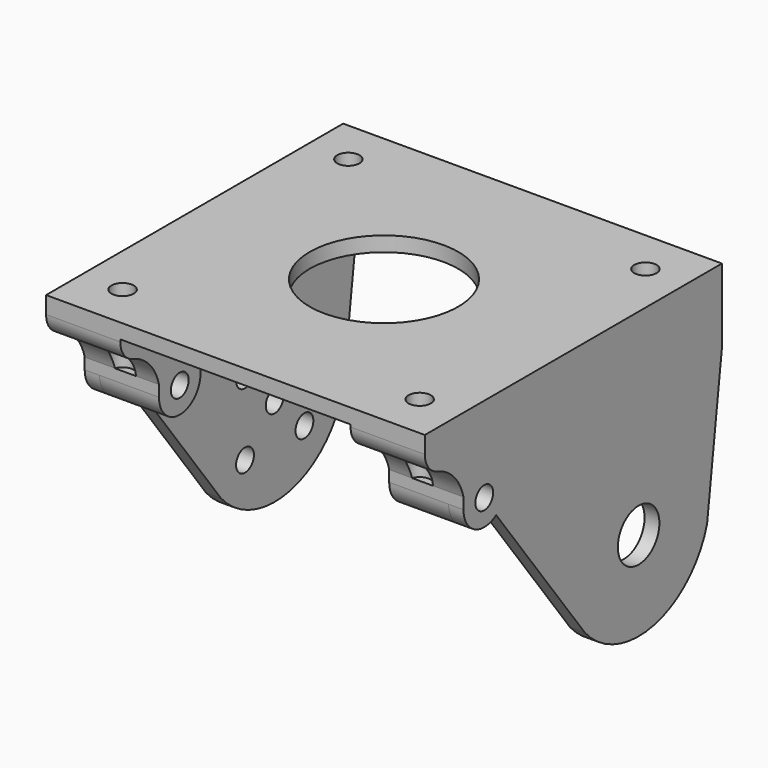
from build123d import *

# Parameters (mm, degrees)
SKETCH_W        = 47
SKETCH_H        = 50
SKETCH_R        = 10
SKETCH_R_2      = 1.5
PAD_DEPTH       = 2
SKETCH001_R     = 1.5
PAD001_DEPTH    = 2
SKETCH002_R     = 1.5
PAD002_DEPTH    = 8
SKETCH004_R     = 1.5
POCKET_DEPTH    = 8
PAD003_DEPTH    = 8
SKETCH005_R     = 1.5
POCKET001_DEPTH = 4
SKETCH006_R     = 1.5
SKETCH006_R_2   = 3.5
PAD004_DEPTH    = 2
SKETCH007_R     = 1.5
PAD005_DEPTH    = 8
SKETCH008_R     = 1.5
POCKET002_DEPTH = 8
PAD006_DEPTH    = 8
SKETCH010_R     = 1.5
POCKET003_DEPTH = 4
FILLET_R        = 3


with BuildPart() as body:
    # Sketch → Pad (new body)
    with BuildSketch(Plane.XY):
        Rectangle(SKETCH_W, SKETCH_H)
        Circle(SKETCH_R, mode=Mode.SUBTRACT)
        with Locations((-20, -19)):
            Circle(SKETCH_R_2, mode=Mode.SUBTRACT)
        with Locations((20, -19)):
            Circle(SKETCH_R_2, mode=Mode.SUBTRACT)
        with Locations((-20, 19)):
            Circle(SKETCH_R_2, mode=Mode.SUBTRACT)
        with Locations((20, 19)):
            Circle(SKETCH_R_2, mode=Mode.SUBTRACT)
    extrude(amount=PAD_DEPTH)

    # Sketch001 (on Face2 of Pad) → Pad001 (join)
    with BuildSketch(Plane.YZ.offset(23.5)):
        with BuildLine():
            Line((-25, 2), (25, 2))
            Line((25, -8), (25, 2))
            Line((22.505468, -27.843823), (25, -8))
            ThreePointArc((1.953944, -32.406741), (13.581707, -36.214738), (22.505468, -27.843823))
            Line((-13, -12.372281), (1.953944, -32.406741))
            ThreePointArc((-18.5, -9.5), (-16.620185, -12.602418), (-13, -12.372281))
            Line((-18.5, -8), (-18.5, -9.5))
            ThreePointArc((-18.5, -8), (-20.847064, -4.279548), (-25, -2.829168))
            Line((-25, 2), (-25, -2.829168))
        make_face()
        with Locations((-15, -9.5)):
            Circle(SKETCH001_R, mode=Mode.SUBTRACT)
        with Locations((15.980762, -19.5)):
            Circle(SKETCH001_R, mode=Mode.SUBTRACT)
        with Locations((5.980762, -19.5)):
            Circle(SKETCH001_R, mode=Mode.SUBTRACT)
        with Locations((10.980762, -24.5)):
            Circle(SKETCH001_R, mode=Mode.SUBTRACT)
        with Locations((15.980762, -29.5)):
            Circle(SKETCH001_R, mode=Mode.SUBTRACT)
        with Locations((5.980762, -29.5)):
            Circle(SKETCH001_R, mode=Mode.SUBTRACT)
    extrude(amount=PAD001_DEPTH)

    # Sketch002 (on Face9 of Pad001) → Pad002 (join)
    with BuildSketch(Plane(origin=(23.5, 0, 0), x_dir=(0, -1, 0), z_dir=(-1, 0, 0))):
        with BuildLine():
            Line((18.5, -8), (18.5, -9.5))
            ThreePointArc((11.5, -9.5), (15, -13), (18.5, -9.5))
            Line((11.5, -9.5), (11.5, 0))
            Line((25, 0), (11.5, 0))
            Line((25, 0), (25, -2.829168))
            ThreePointArc((25, -2.829168), (20.847064, -4.279548), (18.5, -8))
        make_face()
        with Locations((15, -9.5)):
            Circle(SKETCH002_R, mode=Mode.SUBTRACT)
    extrude(amount=PAD002_DEPTH)

    # Sketch004 (on Face35 of Pad002) → Pocket (cut)
    with BuildSketch(Plane.XY):
        with Locations((20, -19)):
            Circle(SKETCH004_R)
    extrude(amount=-POCKET_DEPTH, mode=Mode.SUBTRACT)

    # Sketch003 (on Face9 of Pad002) → Pad003 (join)
    with BuildSketch(Plane(origin=(23.5, 0, 0), x_dir=(0, -1, 0), z_dir=(-1, 0, 0))):
        with BuildLine():
            Line((-25, 0), (-15.5, 0))
            Line((-15.5, 0), (-15.5, -2))
            ThreePointArc((-17.5, -4), (-16.085786, -3.414214), (-15.5, -2))
            Line((-17.5, -4), (-22.5, -4))
            ThreePointArc((-25, -1.5), (-24.267767, -3.267767), (-22.5, -4))
            Line((-25, 0), (-25, -1.5))
        make_face()
    extrude(amount=PAD003_DEPTH)

    # Sketch005 (on Face41 of Pad003) → Pocket001 (cut)
    with BuildSketch(Plane.XY):
        with Locations((20, 19)):
            Circle(SKETCH005_R)
    extrude(amount=-POCKET001_DEPTH, mode=Mode.SUBTRACT)

    # Sketch006 (on Face2 of Pocket001) → Pad004 (join)
    with BuildSketch(Plane(origin=(-23.5, 0, 0), x_dir=(0, -1, 0), z_dir=(-1, 0, 0))):
        with BuildLine():
            Line((25, 2), (-25, 2))
            Line((-25, 2), (-25, -8))
            Line((-25, -8), (-22.505468, -27.843823))
            ThreePointArc((-22.505468, -27.843823), (-13.581707, -36.214738), (-1.953944, -32.406741))
            Line((-1.953944, -32.406741), (13, -12.372281))
            ThreePointArc((13, -12.372281), (16.620185, -12.602418), (18.5, -9.5))
            Line((18.5, -9.5), (18.5, -8))
            ThreePointArc((25, -2.829168), (20.847064, -4.279548), (18.5, -8))
            Line((25, -2.829168), (25, 2))
        make_face()
        with Locations((15, -9.5)):
            Circle(SKETCH006_R, mode=Mode.SUBTRACT)
        with Locations((-10.980762, -24.5)):
            Circle(SKETCH006_R_2, mode=Mode.SUBTRACT)
    extrude(amount=PAD004_DEPTH)

    # Sketch007 (on Face9 of Pad004) → Pad005 (join)
    with BuildSketch(Plane.YZ.offset(-23.5)):
        with BuildLine():
            Line((-11.5, 0), (-25, 0))
            Line((-25, 0), (-25, -2.829168))
            ThreePointArc((-18.5, -8), (-20.847064, -4.279548), (-25, -2.829168))
            Line((-18.5, -8), (-18.5, -9.5))
            ThreePointArc((-18.5, -9.5), (-15, -13), (-11.5, -9.5))
            Line((-11.5, 0), (-11.5, -9.5))
        make_face()
        with Locations((-15, -9.5)):
            Circle(SKETCH007_R, mode=Mode.SUBTRACT)
    extrude(amount=PAD005_DEPTH)

    # Sketch008 (on Face62 of Pad005) → Pocket002 (cut)
    with BuildSketch(Plane.XY):
        with Locations((-20, -19)):
            Circle(SKETCH008_R)
    extrude(amount=-POCKET002_DEPTH, mode=Mode.SUBTRACT)

    # Sketch009 (on Face9 of Pocket002) → Pad006 (join)
    with BuildSketch(Plane.YZ.offset(-23.5)):
        with BuildLine():
            Line((25, 0), (15.5, 0))
            Line((15.5, 0), (15.5, -2))
            ThreePointArc((15.5, -2), (16.085786, -3.414214), (17.5, -4))
            Line((17.5, -4), (22.5, -4))
            ThreePointArc((22.5, -4), (24.267767, -3.267767), (25, -1.5))
            Line((25, -1.5), (25, 0))
        make_face()
    extrude(amount=PAD006_DEPTH)

    # Sketch010 (on Face67 of Pad006) → Pocket003 (cut)
    with BuildSketch(Plane.XY):
        with Locations((-20, 19)):
            Circle(SKETCH010_R)
    extrude(amount=-POCKET003_DEPTH, mode=Mode.SUBTRACT)

    # Fillet
    fillet_edges = [body.edges().sort_by_distance(p)[0] for p in [
        (-19.5, -25, -2.829168),
        (-24.5, -25, -2.829168),
        (19.5, -25, -2.829168),
        (24.5, -25, -2.829168),
    ]]
    fillet(fillet_edges, radius=FILLET_R)


with BuildPart() as part_mirroring:
    # Part__Mirroring: instance of Body
    add(body.part.mirror(Plane(origin=(0, 0, 0), x_dir=(0, -1, 0), z_dir=(1, 0, 0))))


solid = part_mirroring.part
